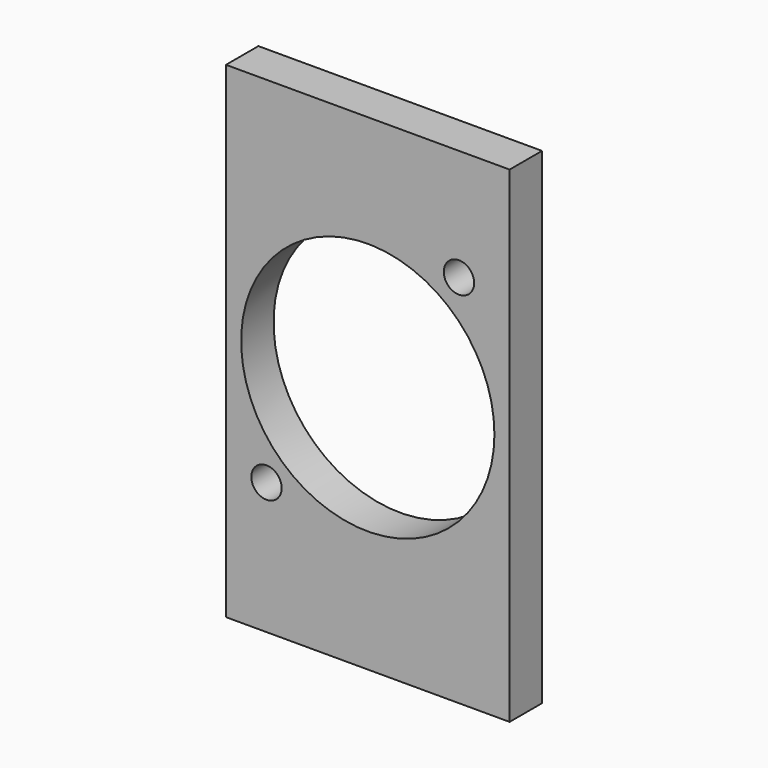
from build123d import *

# Parameters (mm, degrees)
CYLINDER879_R     = 12.5
CYLINDER879_DEPTH = 10
CYLINDER877_R     = 1.5
CYLINDER877_DEPTH = 10
CYLINDER878_R     = 1.5
CYLINDER878_DEPTH = 10
BOX424_W          = 28
BOX424_H          = 4
BOX424_DEPTH      = 48


with BuildPart() as obj1:
    # Cylinder879 → Cylinder879 (new body)
    with BuildSketch(Plane(origin=(16, 7, 50.5), x_dir=(1, 0, 0), z_dir=(0, -1, 0))):
        Circle(CYLINDER879_R)
    extrude(amount=CYLINDER879_DEPTH)


with BuildPart() as obj2:
    # Cylinder877 → Cylinder877 (new body)
    with BuildSketch(Plane(origin=(29, 6, 63), x_dir=(1, 0, 0), z_dir=(0, -1, 0))):
        Circle(CYLINDER877_R)
    extrude(amount=CYLINDER877_DEPTH)


with BuildPart() as compound504:
    # Cylinder878 → Cylinder878 (new body)
    with BuildSketch(Plane(origin=(10, 6, 39), x_dir=(1, 0, 0), z_dir=(0, -1, 0))):
        Circle(CYLINDER878_R)
    extrude(amount=CYLINDER878_DEPTH)

    # Compound504: union obj2
    add(obj2.part)


with BuildPart() as compound504_1:
    # Compound504 placement: moved
    add(compound504.part.moved(Location((-4, 0, 0))))


with BuildPart() as cut022:
    # Box424 → Box424 (new body)
    with BuildSketch(Plane(origin=(2, 0, 26), x_dir=(1, 0, 0), z_dir=(0, 0, 1))):
        with Locations((14, 2)):
            Rectangle(BOX424_W, BOX424_H)
    extrude(amount=BOX424_DEPTH)

    # Cut021: cut Compound504
    add(compound504_1.part, mode=Mode.SUBTRACT)

    # Cut022: cut obj1
    add(obj1.part, mode=Mode.SUBTRACT)


solid = cut022.part
